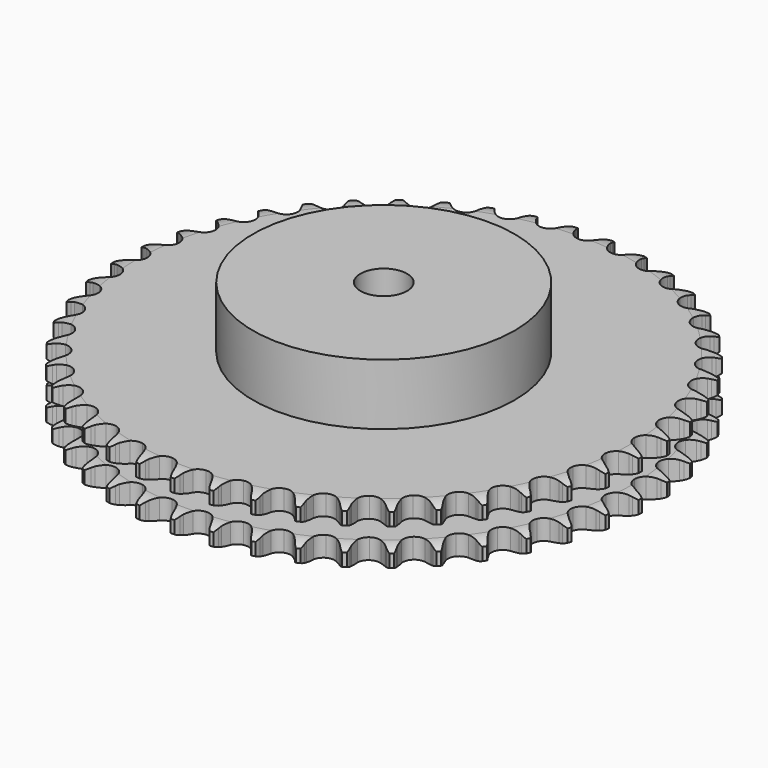
from build123d import *

# Parameters (mm, degrees)
PAD_DEPTH         = 30.3
SKETCH001_R       = 70
PAD001_DEPTH      = 63
SKETCH002_R       = 12.5
POCKET_DEPTH      = 0.001
POCKET_DEPTH_BACK = 63.001


with BuildPart() as part:
    # Sprocket → Pad (new body)
    with BuildSketch(Plane.XY):
        with BuildLine():
            ThreePointArc((-9.948323, 142.267652), (-8.601029, 140.580996), (-7.657275, 138.639518))
            Line((-7.657275, 138.639518), (-7.069475, 136.986757))
            ThreePointArc((-7.069475, 136.986757), (-6.141632, 134.879736), (-4.916699, 132.930386))
            ThreePointArc((-4.916699, 132.930386), (-2.754998, 131.100372), (0, 130.443191))
            ThreePointArc((0, 130.443191), (2.754998, 131.100372), (4.916699, 132.930386))
            ThreePointArc((4.916699, 132.930386), (6.141632, 134.879736), (7.069475, 136.986757))
            Line((7.069475, 136.986757), (7.657275, 138.639518))
            ThreePointArc((7.657275, 138.639518), (8.601029, 140.580996), (9.948323, 142.267652))
            ThreePointArc((9.948323, 142.267652), (11.047769, 140.409904), (11.712137, 138.355975))
            Line((11.712137, 138.355975), (12.064196, 136.637492))
            ThreePointArc((12.064196, 136.637492), (12.689769, 134.421846), (13.631484, 132.320989))
            ThreePointArc((13.631484, 132.320989), (15.517458, 130.207933), (18.154183, 129.173727))
            ThreePointArc((18.154183, 129.173727), (20.973832, 129.44109), (23.369184, 130.952445))
            Line((23.369184, 130.952445), (26.065547, 134.669731))
            ThreePointArc((26.065547, 134.669731), (26.449946, 135.458474), (26.877647, 136.224601))
            ThreePointArc((26.877647, 136.224601), (28.082418, 138.01584), (29.651337, 139.498574))
            ThreePointArc((29.651337, 139.498574), (30.481534, 137.505892), (30.853585, 135.37949))
            Line((30.853585, 135.37949), (30.963052, 133.628734))
            ThreePointArc((30.963052, 133.628734), (31.274178, 131.347588), (31.914346, 129.136114))
            ThreePointArc((31.914346, 129.136114), (33.487885, 126.781146), (35.955016, 125.390043))
            ThreePointArc((35.955016, 125.390043), (38.784434, 125.262385), (41.366815, 126.425663))
            Line((41.366815, 126.425663), (44.554283, 129.731511))
            ThreePointArc((44.554283, 129.731511), (45.044713, 130.459081), (45.574875, 131.158228))
            ThreePointArc((45.574875, 131.158228), (47.017214, 132.764362), (48.777222, 134.014315))
            ThreePointArc((48.777222, 134.014315), (49.322011, 131.925484), (49.394504, 129.767997))
            Line((49.394504, 129.767997), (49.259247, 128.019044))
            ThreePointArc((49.259247, 128.019044), (49.249871, 125.716798), (49.576031, 123.437752))
            ThreePointArc((49.576031, 123.437752), (50.806509, 120.886708), (53.056026, 119.165785))
            ThreePointArc((53.056026, 119.165785), (55.840141, 118.64559), (58.559287, 119.438149))
            Line((58.559287, 119.438149), (62.175821, 122.268215))
            ThreePointArc((62.175821, 122.268215), (62.762736, 122.920449), (63.385041, 123.539008))
            ThreePointArc((63.385041, 123.539008), (65.036874, 124.928777), (66.953713, 125.921619))
            ThreePointArc((66.953713, 125.921619), (67.202492, 123.777297), (66.974014, 121.630717))
            Line((66.974014, 121.630717), (66.596666, 119.91761))
            ThreePointArc((66.596666, 119.91761), (66.266971, 117.639073), (66.272775, 115.336814))
            ThreePointArc((66.272775, 115.336814), (67.136241, 112.639347), (69.12436, 110.6221))
            ThreePointArc((69.12436, 110.6221), (71.808984, 109.719494), (74.61197, 110.125907))
            Line((74.61197, 110.125907), (78.587177, 112.425107))
            ThreePointArc((78.587177, 112.425107), (79.259153, 112.989312), (79.961489, 113.515242))
            ThreePointArc((79.961489, 113.515242), (81.790665, 114.661595), (83.827026, 115.378003))
            ThreePointArc((83.827026, 115.378003), (83.774952, 113.219926), (83.249952, 111.126034))
            Line((83.249952, 111.126034), (82.637858, 109.482115))
            ThreePointArc((82.637858, 109.482115), (81.99426, 107.271638), (81.679595, 104.990977))
            ThreePointArc((81.679595, 104.990977), (82.159243, 102.19959), (83.847267, 99.925282))
            ThreePointArc((83.847267, 99.925282), (86.380146, 98.657832), (89.212415, 98.67019))
            Line((89.212415, 98.67019), (93.468922, 100.393773))
            ThreePointArc((93.468922, 100.393773), (94.212881, 100.858965), (94.981578, 101.282031))
            ThreePointArc((94.981578, 101.282031), (96.952493, 102.162656), (99.068742, 102.588685))
            ThreePointArc((99.068742, 102.588685), (98.716828, 100.458858), (97.905524, 98.458409))
            Line((97.905524, 98.458409), (97.070597, 96.915676))
            ThreePointArc((97.070597, 96.915676), (96.125624, 94.816282), (95.496615, 92.601609))
            ThreePointArc((95.496615, 92.601609), (95.583109, 89.770634), (96.938183, 87.283532))
            ThreePointArc((96.938183, 87.283532), (99.270017, 85.675908), (102.076442, 85.29397))
            Line((102.076442, 85.29397), (106.531402, 86.408388))
            ThreePointArc((106.531402, 86.408388), (107.332863, 86.765514), (108.152958, 87.077481))
            ThreePointArc((108.152958, 87.077481), (110.227252, 87.675237), (112.382197, 87.802595))
            ThreePointArc((112.382197, 87.802595), (111.737294, 85.742472), (110.655476, 83.874403))
            Line((110.655476, 83.874403), (109.613968, 82.462883))
            ThreePointArc((109.613968, 82.462883), (108.386012, 80.515435), (107.454901, 78.409857))
            ThreePointArc((107.454901, 78.409857), (107.146558, 75.594395), (108.142307, 72.942907))
            ThreePointArc((108.142307, 72.942907), (110.227709, 71.0264), (112.953668, 70.2576))
            Line((112.953668, 70.2576), (117.520369, 70.741162))
            ThreePointArc((117.520369, 70.741162), (118.363733, 70.983271), (119.219264, 71.178066))
            ThreePointArc((119.219264, 71.178066), (121.356562, 71.481319), (123.508261, 71.307527))
            ThreePointArc((123.508261, 71.307527), (122.58292, 69.357206), (121.251645, 67.657878))
            Line((121.251645, 67.657878), (120.023828, 66.405044))
            ThreePointArc((120.023828, 66.405044), (118.53679, 64.647447), (117.321701, 62.691946))
            ThreePointArc((117.321701, 62.691946), (116.624522, 59.946796), (117.241564, 57.182531))
            ThreePointArc((117.241564, 57.182531), (119.039945, 54.994444), (121.632379, 53.853746))
            Line((121.632379, 53.853746), (126.221936, 53.69704))
            ThreePointArc((126.221936, 53.69704), (127.090787, 53.819418), (127.965102, 53.893252))
            ThreePointArc((127.965102, 53.893252), (130.123806, 53.896099), (132.230376, 53.42454))
            ThreePointArc((132.230376, 53.42454), (131.042608, 51.621982), (129.487789, 50.124468))
            Line((129.487789, 50.124468), (128.09756, 49.054706))
            ThreePointArc((128.09756, 49.054706), (126.380384, 47.52117), (124.904966, 45.753807))
            ThreePointArc((124.904966, 45.753807), (123.832521, 43.132402), (124.058847, 40.309163))
            ThreePointArc((124.058847, 40.309163), (125.535204, 37.892084), (127.943654, 36.40169))
            Line((127.943654, 36.40169), (132.466736, 35.607765))
            ThreePointArc((132.466736, 35.607765), (133.344163, 35.608033), (134.220246, 35.559466))
            ThreePointArc((134.220246, 35.559466), (136.358337, 35.261852), (138.378778, 34.501704))
            ThreePointArc((138.378778, 34.501704), (136.951702, 32.881994), (135.203601, 31.615443))
            Line((135.203601, 31.615443), (133.678019, 30.749575))
            ThreePointArc((133.678019, 30.749575), (131.764127, 29.469948), (130.057099, 27.925123))
            ThreePointArc((130.057099, 27.925123), (128.630262, 25.478484), (128.461466, 22.651222))
            ThreePointArc((128.461466, 22.651222), (129.587063, 20.052197), (131.764651, 18.241116))
            Line((131.764651, 18.241116), (136.133222, 16.825427))
            ThreePointArc((136.133222, 16.825427), (137.002147, 16.703577), (137.862944, 16.533556))
            ThreePointArc((137.862944, 16.533556), (139.938808, 15.941274), (141.833795, 14.907333))
            ThreePointArc((141.833795, 14.907333), (140.195187, 13.501996), (138.287828, 12.49106))
            Line((138.287828, 12.49106), (136.656587, 11.845938))
            ThreePointArc((136.656587, 11.845938), (134.583232, 10.845126), (132.677818, 9.552907))
            ThreePointArc((132.677818, 9.552907), (130.924361, 7.328657), (130.363729, 4.552402))
            ThreePointArc((130.363729, 4.552402), (131.116657, 1.822017), (133.020999, -0.2745))
            Line((133.020999, -0.2745), (137.15003, -2.2844))
            ThreePointArc((137.15003, -2.2844), (137.993541, -2.525995), (138.822298, -2.814161))
            ThreePointArc((138.822298, -2.814161), (140.79553, -3.689584), (142.528178, -4.977194))
            ThreePointArc((142.528178, -4.977194), (140.709931, -6.140804), (138.68044, -6.876448))
            Line((138.68044, -6.876448), (136.975291, -7.288267))
            ThreePointArc((136.975291, -7.288267), (134.782827, -7.990784), (132.716115, -9.005244))
            ThreePointArc((132.716115, -9.005244), (130.670166, -10.963814), (129.72861, -13.635026))
            ThreePointArc((129.72861, -13.635026), (130.094214, -16.443627), (131.688245, -18.784774))
            Line((131.688245, -18.784774), (135.497368, -21.349763))
            ThreePointArc((135.497368, -21.349763), (136.299046, -21.706401), (137.079633, -22.107103))
            ThreePointArc((137.079633, -22.107103), (138.911827, -23.248627), (140.448412, -24.764844))
            ThreePointArc((140.448412, -24.764844), (138.485917, -25.664079), (136.373795, -26.110114))
            Line((136.373795, -26.110114), (134.627926, -26.280614))
            ThreePointArc((134.627926, -26.280614), (132.359027, -26.671162), (130.171243, -27.388119))
            ThreePointArc((130.171243, -27.388119), (127.872625, -29.042887), (126.568471, -31.557064))
            ThreePointArc((126.568471, -31.557064), (126.539636, -34.389214), (127.792328, -36.929423))
            Line((127.792328, -36.929423), (131.207404, -39.999578))
            ThreePointArc((131.207404, -39.999578), (131.951646, -40.464317), (132.66887, -40.969756))
            ThreePointArc((132.66887, -40.969756), (134.324363, -42.355163), (135.634977, -44.070476))
            ThreePointArc((135.634977, -44.070476), (133.566432, -44.687833), (131.412789, -44.835576))
            Line((131.412789, -44.835576), (129.660181, -44.761439))
            ThreePointArc((129.660181, -44.761439), (127.35901, -44.832416), (125.092736, -45.237915))
            ThreePointArc((125.092736, -45.237915), (122.586188, -46.556673), (120.944821, -48.86488))
            ThreePointArc((120.944821, -48.86488), (120.522107, -51.665454), (121.40908, -54.355283))
            Line((121.40908, -54.355283), (124.363637, -57.870846))
            ThreePointArc((124.363637, -57.870846), (125.035958, -58.43464), (125.675857, -59.034979))
            ThreePointArc((125.675857, -59.034979), (127.122428, -60.637303), (128.181562, -62.518325))
            ThreePointArc((128.181562, -62.518325), (126.047229, -62.841788), (123.893982, -62.688365))
            Line((123.893982, -62.688365), (122.168749, -62.371033))
            ThreePointArc((122.168749, -62.371033), (119.880094, -62.121059), (117.579441, -62.207207))
            ThreePointArc((117.579441, -62.207207), (114.913751, -63.164287), (112.967118, -65.221596))
            ThreePointArc((112.967118, -65.221596), (112.158753, -67.936084), (112.662742, -70.723179))
            Line((112.662742, -70.723179), (115.099274, -74.615724))
            ThreePointArc((115.099274, -74.615724), (115.686586, -75.2676), (116.236707, -75.951154))
            ThreePointArc((116.236707, -75.951154), (117.4462, -77.739208), (118.233239, -79.749327))
            ThreePointArc((118.233239, -79.749327), (116.074659, -79.7726), (113.963721, -79.320996))
            Line((113.963721, -79.320996), (112.299441, -78.766646))
            ThreePointArc((112.299441, -78.766646), (110.067849, -78.200585), (107.777596, -77.965706))
            ThreePointArc((107.777596, -77.965706), (105.004649, -78.54248), (102.790638, -80.308848))
            ThreePointArc((102.790638, -80.308848), (101.612356, -82.884417), (101.723552, -85.714529))
            Line((101.723552, -85.714529), (103.594634, -89.908291))
            ThreePointArc((103.594634, -89.908291), (104.085507, -90.635562), (104.535142, -91.389025))
            ThreePointArc((104.535142, -91.389025), (105.484015, -93.328007), (105.98364, -95.428098))
            ThreePointArc((105.98364, -95.428098), (103.842828, -95.150729), (101.815285, -94.409733))
            Line((101.815285, -94.409733), (100.244352, -93.629156))
            ThreePointArc((100.244352, -93.629156), (98.113259, -92.758026), (95.877983, -92.206691))
            ThreePointArc((95.877983, -92.206691), (93.051751, -92.391932), (90.613455, -93.832979))
            ThreePointArc((90.613455, -93.832979), (89.08819, -96.219498), (88.804428, -99.037544))
            Line((88.804428, -99.037544), (90.073643, -103.450897))
            ThreePointArc((90.073643, -103.450897), (90.458522, -104.239406), (90.798919, -105.048114))
            ThreePointArc((90.798919, -105.048114), (91.468703, -107.100283), (91.67119, -109.24947))
            ThreePointArc((91.67119, -109.24947), (89.589815, -108.676857), (87.68513, -107.660893))
            Line((87.68513, -107.660893), (86.238121, -106.669281))
            ThreePointArc((86.238121, -106.669281), (84.249005, -105.510038), (82.112214, -104.652978))
            ThreePointArc((82.112214, -104.652978), (79.287706, -104.443081), (76.672584, -105.530759))
            ThreePointArc((76.672584, -105.530759), (74.830024, -107.681776), (74.156828, -110.432905))
            Line((74.156828, -110.432905), (74.79947, -114.979948))
            ThreePointArc((74.79947, -114.979948), (75.070864, -115.814348), (75.295399, -116.66256))
            ThreePointArc((75.295399, -116.66256), (75.673058, -118.787973), (75.574465, -120.944426))
            ThreePointArc((75.574465, -120.944426), (73.593038, -120.087714), (71.848284, -118.816556))
            Line((71.848284, -118.816556), (70.553363, -117.63321))
            ThreePointArc((70.553363, -117.63321), (68.74494, -116.208417), (66.748224, -115.062314))
            ThreePointArc((66.748224, -115.062314), (63.980416, -114.461364), (61.239369, -115.174502))
            ThreePointArc((61.239369, -115.174502), (59.115377, -117.048151), (58.065849, -119.678815))
            Line((58.065849, -119.678815), (58.069411, -124.271045))
            ThreePointArc((58.069411, -124.271045), (58.222038, -125.135096), (58.326339, -126.006302))
            ThreePointArc((58.326339, -126.006302), (58.404522, -128.163591), (58.006769, -130.285336))
            ThreePointArc((58.006769, -130.285336), (56.163856, -129.1612), (54.612993, -127.65959))
            Line((54.612993, -127.65959), (53.495364, -126.307542))
            ThreePointArc((53.495364, -126.307542), (51.902833, -124.644931), (50.085056, -123.232093))
            ThreePointArc((50.085056, -123.232093), (47.42782, -122.251787), (44.614199, -122.576504))
            ThreePointArc((44.614199, -122.576504), (42.250116, -124.136317), (40.844684, -126.595313))
            Line((40.844684, -126.595313), (40.209097, -131.143348))
            ThreePointArc((40.209097, -131.143348), (40.239985, -132.020231), (40.222023, -132.897475))
            ThreePointArc((40.222023, -132.897475), (39.999209, -135.04465), (39.310037, -137.09039))
            ThreePointArc((39.310037, -137.09039), (37.641509, -135.72071), (36.314722, -134.017875))
            Line((36.314722, -134.017875), (35.396139, -132.523441))
            ThreePointArc((35.396139, -132.523441), (34.050497, -130.655373), (32.447039, -129.003299))
            ThreePointArc((32.447039, -129.003299), (29.952095, -127.662718), (27.120664, -127.592695))
            ThreePointArc((27.120664, -127.592695), (24.562505, -128.80831), (22.828524, -131.047777))
            Line((22.828524, -131.047777), (21.566158, -135.463094))
            ThreePointArc((21.566158, -135.463094), (21.474708, -136.335743), (21.334832, -137.201949))
            ThreePointArc((21.334832, -137.201949), (20.815357, -139.297219), (19.848179, -141.227135))
            ThreePointArc((19.848179, -141.227135), (18.386512, -139.638571), (17.309626, -137.767655))
            Line((17.309626, -137.767655), (16.607967, -136.159923))
            ThreePointArc((16.607967, -136.159923), (15.535406, -134.122758), (14.177477, -132.263603))
            ThreePointArc((14.177477, -132.263603), (11.893387, -130.588839), (9.099257, -130.125438))
            ThreePointArc((9.099257, -130.125438), (6.396812, -130.973197), (4.368033, -132.949546))
            Line((4.368033, -132.949546), (2.503459, -137.146206))
            ThreePointArc((2.503459, -137.146206), (2.291449, -137.997635), (2.032382, -138.835944))
            ThreePointArc((2.032382, -138.835944), (1.226357, -140.838526), (0, -142.615055))
            ThreePointArc((0, -142.615055), (-1.226357, -140.838526), (-2.032382, -138.835944))
            Line((-2.032382, -138.835944), (-2.503459, -137.146206))
            ThreePointArc((-2.503459, -137.146206), (-3.282063, -134.979595), (-4.368033, -132.949546))
            ThreePointArc((-4.368033, -132.949546), (-6.396812, -130.973197), (-9.099257, -130.125438))
            ThreePointArc((-9.099257, -130.125438), (-11.893387, -130.588839), (-14.177477, -132.263603))
            Line((-14.177477, -132.263603), (-16.607967, -136.159923))
            ThreePointArc((-16.607967, -136.159923), (-16.93641, -136.973559), (-17.309626, -137.767655))
            ThreePointArc((-17.309626, -137.767655), (-18.386512, -139.638571), (-19.848179, -141.227135))
            ThreePointArc((-19.848179, -141.227135), (-20.815357, -139.297219), (-21.334832, -137.201949))
            Line((-21.334832, -137.201949), (-21.566158, -135.463094))
            ThreePointArc((-21.566158, -135.463094), (-22.035651, -133.209208), (-22.828524, -131.047777))
            ThreePointArc((-22.828524, -131.047777), (-24.562505, -128.80831), (-27.120664, -127.592695))
            ThreePointArc((-27.120664, -127.592695), (-29.952095, -127.662718), (-32.447039, -129.003299))
            Line((-32.447039, -129.003299), (-35.396139, -132.523441))
            ThreePointArc((-35.396139, -132.523441), (-35.834621, -133.283449), (-36.314722, -134.017875))
            ThreePointArc((-36.314722, -134.017875), (-37.641509, -135.72071), (-39.310037, -137.09039))
            ThreePointArc((-39.310037, -137.09039), (-39.999209, -135.04465), (-40.222023, -132.897475))
            Line((-40.222023, -132.897475), (-40.209097, -131.143348))
            ThreePointArc((-40.209097, -131.143348), (-40.36034, -128.846055), (-40.844684, -126.595313))
            ThreePointArc((-40.844684, -126.595313), (-42.250116, -124.136317), (-44.614199, -122.576504))
            ThreePointArc((-44.614199, -122.576504), (-47.42782, -122.251787), (-50.085056, -123.232093))
            Line((-50.085056, -123.232093), (-53.495364, -126.307542))
            ThreePointArc((-53.495364, -126.307542), (-54.035352, -126.999129), (-54.612993, -127.65959))
            ThreePointArc((-54.612993, -127.65959), (-56.163856, -129.1612), (-58.006769, -130.285336))
            ThreePointArc((-58.006769, -130.285336), (-58.404522, -128.163591), (-58.326339, -126.006302))
            Line((-58.326339, -126.006302), (-58.069411, -124.271045))
            ThreePointArc((-58.069411, -124.271045), (-57.899461, -121.97506), (-58.065849, -119.678815))
            ThreePointArc((-58.065849, -119.678815), (-59.115377, -117.048151), (-61.239369, -115.174502))
            ThreePointArc((-61.239369, -115.174502), (-63.980416, -114.461364), (-66.748224, -115.062314))
            Line((-66.748224, -115.062314), (-70.553363, -117.63321))
            ThreePointArc((-70.553363, -117.63321), (-71.184346, -118.242914), (-71.848284, -118.816556))
            ThreePointArc((-71.848284, -118.816556), (-73.593038, -120.087714), (-75.574465, -120.944426))
            ThreePointArc((-75.574465, -120.944426), (-75.673058, -118.787973), (-75.295399, -116.66256))
            Line((-75.295399, -116.66256), (-74.79947, -114.979948))
            ThreePointArc((-74.79947, -114.979948), (-74.311635, -112.72996), (-74.156828, -110.432905))
            ThreePointArc((-74.156828, -110.432905), (-74.830024, -107.681776), (-76.672584, -105.530759))
            ThreePointArc((-76.672584, -105.530759), (-79.287706, -104.443081), (-82.112214, -104.652978))
            Line((-82.112214, -104.652978), (-86.238121, -106.669281))
            ThreePointArc((-86.238121, -106.669281), (-86.947818, -107.185236), (-87.68513, -107.660893))
            ThreePointArc((-87.68513, -107.660893), (-89.589815, -108.676857), (-91.67119, -109.24947))
            ThreePointArc((-91.67119, -109.24947), (-91.468703, -107.100283), (-90.798919, -105.048114))
            Line((-90.798919, -105.048114), (-90.073643, -103.450897))
            ThreePointArc((-90.073643, -103.450897), (-89.277417, -101.290699), (-88.804428, -99.037544))
            ThreePointArc((-88.804428, -99.037544), (-89.08819, -96.219498), (-90.613455, -93.832979))
            ThreePointArc((-90.613455, -93.832979), (-93.051751, -92.391932), (-95.877983, -92.206691))
            Line((-95.877983, -92.206691), (-100.244352, -93.629156))
            ThreePointArc((-100.244352, -93.629156), (-101.018949, -94.04132), (-101.815285, -94.409733))
            ThreePointArc((-101.815285, -94.409733), (-103.842828, -95.150729), (-105.98364, -95.428098))
            ThreePointArc((-105.98364, -95.428098), (-105.484015, -93.328007), (-104.535142, -91.389025))
            Line((-104.535142, -91.389025), (-103.594634, -89.908291))
            ThreePointArc((-103.594634, -89.908291), (-102.505516, -87.87993), (-101.723552, -85.714529))
            ThreePointArc((-101.723552, -85.714529), (-101.612356, -82.884417), (-102.790638, -80.308848))
            ThreePointArc((-102.790638, -80.308848), (-105.004649, -78.54248), (-107.777596, -77.965706))
            Line((-107.777596, -77.965706), (-112.299441, -78.766646))
            ThreePointArc((-112.299441, -78.766646), (-113.123862, -79.066995), (-113.963721, -79.320996))
            ThreePointArc((-113.963721, -79.320996), (-116.074659, -79.7726), (-118.233239, -79.749327))
            ThreePointArc((-118.233239, -79.749327), (-117.4462, -77.739208), (-116.236707, -75.951154))
            Line((-116.236707, -75.951154), (-115.099274, -74.615724))
            ThreePointArc((-115.099274, -74.615724), (-113.738462, -72.758678), (-112.662742, -70.723179))
            ThreePointArc((-112.662742, -70.723179), (-112.158753, -67.936084), (-112.967118, -65.221596))
            ThreePointArc((-112.967118, -65.221596), (-114.913751, -63.164287), (-117.579441, -62.207207))
            Line((-117.579441, -62.207207), (-122.168749, -62.371033))
            ThreePointArc((-122.168749, -62.371033), (-123.026947, -62.553722), (-123.893982, -62.688365))
            ThreePointArc((-123.893982, -62.688365), (-126.047229, -62.841788), (-128.181562, -62.518325))
            ThreePointArc((-128.181562, -62.518325), (-127.122428, -60.637303), (-125.675857, -59.034979))
            Line((-125.675857, -59.034979), (-124.363637, -57.870846))
            ThreePointArc((-124.363637, -57.870846), (-122.757618, -56.221261), (-121.40908, -54.355283))
            ThreePointArc((-121.40908, -54.355283), (-120.522107, -51.665454), (-120.944821, -48.86488))
            ThreePointArc((-120.944821, -48.86488), (-122.586188, -46.556673), (-125.092736, -45.237915))
            Line((-125.092736, -45.237915), (-129.660181, -44.761439))
            ThreePointArc((-129.660181, -44.761439), (-130.535453, -44.822912), (-131.412789, -44.835576))
            ThreePointArc((-131.412789, -44.835576), (-133.566432, -44.687833), (-135.634977, -44.070476))
            ThreePointArc((-135.634977, -44.070476), (-134.324363, -42.355163), (-132.66887, -40.969756))
            Line((-132.66887, -40.969756), (-131.207404, -39.999578))
            ThreePointArc((-131.207404, -39.999578), (-129.387437, -38.589561), (-127.792328, -36.929423))
            ThreePointArc((-127.792328, -36.929423), (-126.539636, -34.389214), (-126.568471, -31.557064))
            ThreePointArc((-126.568471, -31.557064), (-127.872625, -29.042887), (-130.171243, -27.388119))
            Line((-130.171243, -27.388119), (-134.627926, -26.280614))
            ThreePointArc((-134.627926, -26.280614), (-135.503234, -26.219675), (-136.373795, -26.110114))
            ThreePointArc((-136.373795, -26.110114), (-138.485917, -25.664079), (-140.448412, -24.764844))
            ThreePointArc((-140.448412, -24.764844), (-138.911827, -23.248627), (-137.079633, -22.107103))
            Line((-137.079633, -22.107103), (-135.497368, -21.349763))
            ThreePointArc((-135.497368, -21.349763), (-133.498876, -20.206759), (-131.688245, -18.784774))
            ThreePointArc((-131.688245, -18.784774), (-130.094214, -16.443627), (-129.72861, -13.635026))
            ThreePointArc((-129.72861, -13.635026), (-130.670166, -10.963814), (-132.716115, -9.005244))
            Line((-132.716115, -9.005244), (-136.975291, -7.288267))
            ThreePointArc((-136.975291, -7.288267), (-137.8336, -7.106101), (-138.68044, -6.876448))
            ThreePointArc((-138.68044, -6.876448), (-140.709931, -6.140804), (-142.528178, -4.977194))
            ThreePointArc((-142.528178, -4.977194), (-140.79553, -3.689584), (-138.822298, -2.814161))
            Line((-138.822298, -2.814161), (-137.15003, -2.2844))
            ThreePointArc((-137.15003, -2.2844), (-135.011911, -1.430656), (-133.020999, -0.2745))
            ThreePointArc((-133.020999, -0.2745), (-131.116657, 1.822017), (-130.363729, 4.552402))
            ThreePointArc((-130.363729, 4.552402), (-130.924361, 7.328657), (-132.677818, 9.552907))
            Line((-132.677818, 9.552907), (-136.656587, 11.845938))
            ThreePointArc((-136.656587, 11.845938), (-137.481191, 12.145784), (-138.287828, 12.49106))
            ThreePointArc((-138.287828, 12.49106), (-140.195187, 13.501996), (-141.833795, 14.907333))
            ThreePointArc((-141.833795, 14.907333), (-139.938808, 15.941274), (-137.862944, 16.533556))
            Line((-137.862944, 16.533556), (-136.133222, 16.825427))
            ThreePointArc((-136.133222, 16.825427), (-133.897093, 17.373293), (-131.764651, 18.241116))
            ThreePointArc((-131.764651, 18.241116), (-129.587063, 20.052197), (-128.461466, 22.651222))
            ThreePointArc((-128.461466, 22.651222), (-128.630262, 25.478484), (-130.057099, 27.925123))
            Line((-130.057099, 27.925123), (-133.678019, 30.749575))
            ThreePointArc((-133.678019, 30.749575), (-134.452867, 31.161266), (-135.203601, 31.615443))
            ThreePointArc((-135.203601, 31.615443), (-136.951702, 32.881994), (-138.378778, 34.501704))
            ThreePointArc((-138.378778, 34.501704), (-136.358337, 35.261852), (-134.220246, 35.559466))
            Line((-134.220246, 35.559466), (-132.466736, 35.607765))
            ThreePointArc((-132.466736, 35.607765), (-130.176121, 35.839091), (-127.943654, 36.40169))
            ThreePointArc((-127.943654, 36.40169), (-125.535204, 37.892084), (-124.058847, 40.309163))
            ThreePointArc((-124.058847, 40.309163), (-123.832521, 43.132402), (-124.904966, 45.753807))
            Line((-124.904966, 45.753807), (-128.09756, 49.054706))
            ThreePointArc((-128.09756, 49.054706), (-128.807571, 49.570229), (-129.487789, 50.124468))
            ThreePointArc((-129.487789, 50.124468), (-131.042608, 51.621982), (-132.230376, 53.42454))
            ThreePointArc((-132.230376, 53.42454), (-130.123806, 53.896099), (-127.965102, 53.893252))
            Line((-127.965102, 53.893252), (-126.221936, 53.69704))
            ThreePointArc((-126.221936, 53.69704), (-123.921419, 53.607322), (-121.632379, 53.853746))
            ThreePointArc((-121.632379, 53.853746), (-119.039945, 54.994444), (-117.241564, 57.182531))
            ThreePointArc((-117.241564, 57.182531), (-116.624522, 59.946796), (-117.321701, 62.691946))
            Line((-117.321701, 62.691946), (-120.023828, 66.405044))
            ThreePointArc((-120.023828, 66.405044), (-120.655182, 67.014364), (-121.251645, 67.657878))
            ThreePointArc((-121.251645, 67.657878), (-122.58292, 69.357206), (-123.508261, 71.307527))
            ThreePointArc((-123.508261, 71.307527), (-121.356562, 71.481319), (-119.219264, 71.178066))
            Line((-119.219264, 71.178066), (-117.520369, 70.741162))
            ThreePointArc((-117.520369, 70.741162), (-115.254727, 70.332148), (-112.953668, 70.2576))
            ThreePointArc((-112.953668, 70.2576), (-110.227709, 71.0264), (-108.142307, 72.942907))
            ThreePointArc((-108.142307, 72.942907), (-107.146558, 75.594395), (-107.454901, 78.409857))
            Line((-107.454901, 78.409857), (-109.613968, 82.462883))
            ThreePointArc((-109.613968, 82.462883), (-110.154377, 83.154141), (-110.655476, 83.874403))
            ThreePointArc((-110.655476, 83.874403), (-111.737294, 85.742472), (-112.382197, 87.802595))
            ThreePointArc((-112.382197, 87.802595), (-110.227252, 87.675237), (-108.152958, 87.077481))
            Line((-108.152958, 87.077481), (-106.531402, 86.408388))
            ThreePointArc((-106.531402, 86.408388), (-104.344732, 85.688038), (-102.076442, 85.29397))
            ThreePointArc((-102.076442, 85.29397), (-99.270017, 85.675908), (-96.938183, 87.283532))
            ThreePointArc((-96.938183, 87.283532), (-95.583109, 89.770634), (-95.496615, 92.601609))
            Line((-95.496615, 92.601609), (-97.070597, 96.915676))
            ThreePointArc((-97.070597, 96.915676), (-97.509543, 97.675416), (-97.905524, 98.458409))
            ThreePointArc((-97.905524, 98.458409), (-98.716828, 100.458858), (-99.068742, 102.588685))
            ThreePointArc((-99.068742, 102.588685), (-96.952493, 102.162656), (-94.981578, 101.282031))
            Line((-94.981578, 101.282031), (-93.468922, 100.393773))
            ThreePointArc((-93.468922, 100.393773), (-91.403787, 99.376107), (-89.212415, 98.67019))
            ThreePointArc((-89.212415, 98.67019), (-86.380146, 98.657832), (-83.847267, 99.925282))
            ThreePointArc((-83.847267, 99.925282), (-82.159243, 102.19959), (-81.679595, 104.990977))
            Line((-81.679595, 104.990977), (-82.637858, 109.482115))
            ThreePointArc((-82.637858, 109.482115), (-82.966796, 110.295551), (-83.249952, 111.126034))
            ThreePointArc((-83.249952, 111.126034), (-83.774952, 113.219926), (-83.827026, 115.378003))
            ThreePointArc((-83.827026, 115.378003), (-81.790665, 114.661595), (-79.961489, 113.515242))
            Line((-79.961489, 113.515242), (-78.587177, 112.425107))
            ThreePointArc((-78.587177, 112.425107), (-76.68377, 111.129934), (-74.61197, 110.125907))
            ThreePointArc((-74.61197, 110.125907), (-71.808984, 109.719494), (-69.12436, 110.6221))
            ThreePointArc((-69.12436, 110.6221), (-67.136241, 112.639347), (-66.272775, 115.336814))
            Line((-66.272775, 115.336814), (-66.596666, 119.91761))
            ThreePointArc((-66.596666, 119.91761), (-66.809195, 120.768909), (-66.974014, 121.630717))
            ThreePointArc((-66.974014, 121.630717), (-67.202492, 123.777297), (-66.953713, 125.921619))
            ThreePointArc((-66.953713, 125.921619), (-65.036874, 124.928777), (-63.385041, 123.539008))
            Line((-63.385041, 123.539008), (-62.175821, 122.268215))
            ThreePointArc((-62.175821, 122.268215), (-60.471192, 120.720744), (-58.559287, 119.438149))
            ThreePointArc((-58.559287, 119.438149), (-55.840141, 118.64559), (-53.056026, 119.165785))
            ThreePointArc((-53.056026, 119.165785), (-50.806509, 120.886708), (-49.576031, 123.437752))
            Line((-49.576031, 123.437752), (-49.259247, 128.019044))
            ThreePointArc((-49.259247, 128.019044), (-49.351229, 128.891637), (-49.394504, 129.767997))
            ThreePointArc((-49.394504, 129.767997), (-49.322011, 131.925484), (-48.777222, 134.014315))
            ThreePointArc((-48.777222, 134.014315), (-47.017214, 132.764362), (-45.574875, 131.158228))
            Line((-45.574875, 131.158228), (-44.554283, 129.731511))
            ThreePointArc((-44.554283, 129.731511), (-43.08161, 127.961861), (-41.366815, 126.425663))
            ThreePointArc((-41.366815, 126.425663), (-38.784434, 125.262385), (-35.955016, 125.390043))
            ThreePointArc((-35.955016, 125.390043), (-33.487885, 126.781146), (-31.914346, 129.136114))
            Line((-31.914346, 129.136114), (-30.963052, 133.628734))
            ThreePointArc((-30.963052, 133.628734), (-30.932697, 134.505636), (-30.853585, 135.37949))
            ThreePointArc((-30.853585, 135.37949), (-30.481534, 137.505892), (-29.651337, 139.498574))
            ThreePointArc((-29.651337, 139.498574), (-28.082418, 138.01584), (-26.877647, 136.224601))
            Line((-26.877647, 136.224601), (-26.065547, 134.669731))
            ThreePointArc((-26.065547, 134.669731), (-24.853494, 132.712346), (-23.369184, 130.952445))
            ThreePointArc((-23.369184, 130.952445), (-20.973832, 129.44109), (-18.154183, 129.173727))
            ThreePointArc((-18.154183, 129.173727), (-15.517458, 130.207933), (-13.631484, 132.320989))
            Line((-13.631484, 132.320989), (-12.064196, 136.637492))
            ThreePointArc((-12.064196, 136.637492), (-11.912096, 137.501636), (-11.712137, 138.355975))
            ThreePointArc((-11.712137, 138.355975), (-11.047769, 140.409904), (-9.948323, 142.267652))
        make_face()
    extrude(amount=PAD_DEPTH)

    # Sketch → Groove (revolve, cut)
    with BuildSketch(Plane.XZ):
        with BuildLine():
            ThreePointArc((132.764719, 0), (137.123618, 0.506758), (141.25, 2))
            Line((141.25, 2), (141.25, 8.8))
            ThreePointArc((141.25, 8.8), (137.123618, 10.293242), (132.764719, 10.8))
            Line((70, 10.8), (132.764719, 10.8))
            Line((70, 19.5), (70, 10.8))
            Line((132.764719, 19.5), (70, 19.5))
            ThreePointArc((132.764719, 19.5), (137.123618, 20.006758), (141.25, 21.5))
            Line((141.25, 21.5), (141.25, 28.3))
            ThreePointArc((141.25, 28.3), (137.123618, 29.793242), (132.764719, 30.3))
            Line((132.764719, 30.3), (151.25, 30.3))
            Line((151.25, 30.3), (151.25, 0))
            Line((132.764719, 0), (151.25, 0))
        make_face()
    revolve(axis=Axis((0, 0, 0), (0, 0, 1)), mode=Mode.SUBTRACT)

    # Sketch001 → Pad001 (join)
    with BuildSketch(Plane.XY):
        Circle(SKETCH001_R)
    extrude(amount=PAD001_DEPTH)

    # Sketch002 → Pocket (cut, two sides)
    with BuildSketch(Plane.XY) as pocket_sk:
        Circle(SKETCH002_R)
    extrude(amount=-POCKET_DEPTH, mode=Mode.SUBTRACT)
    extrude(pocket_sk.sketch, amount=POCKET_DEPTH_BACK, mode=Mode.SUBTRACT)


solid = part.part
